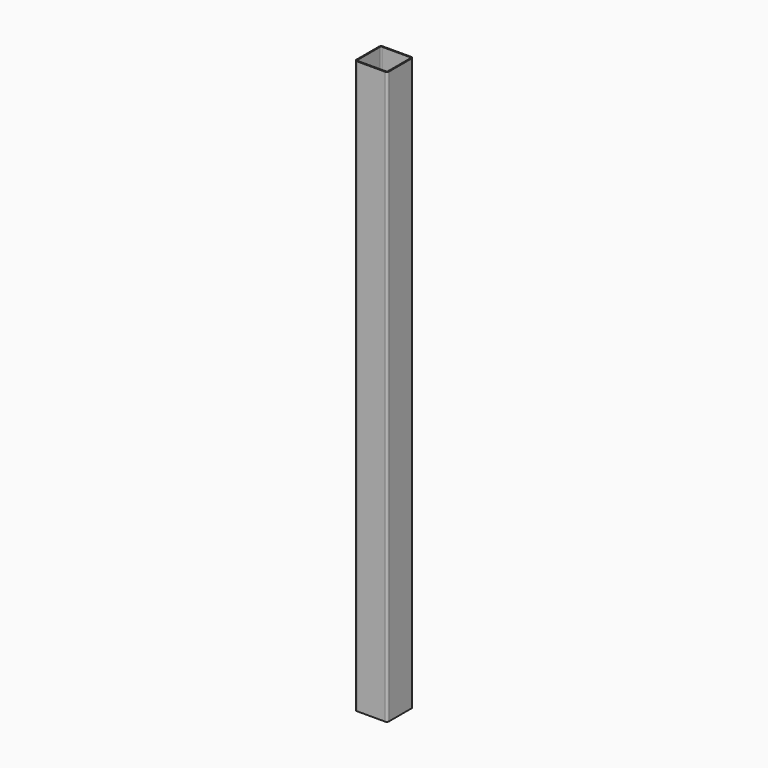
from build123d import *

# Parameters (mm, degrees)
F0_W     = 50.8
F0_H     = 50.8
F0_W_2   = 47.625
F0_H_2   = 47.625
F1_DEPTH = 895.35
F2_R     = 3.175
F3_R     = 1.5875


with BuildPart() as f1:
    # F0 (on Top) → F1 (new body)
    with BuildSketch(Plane.XY):
        with Locations((-12.7, -11.264074)):
            Rectangle(F0_W, F0_H)
        with Locations((-12.7, -11.264074)):
            Rectangle(F0_W_2, F0_H_2, mode=Mode.SUBTRACT)
    extrude(amount=-F1_DEPTH)

    # F2
    f2_edges = [f1.edges().sort_by_distance(p)[0] for p in [
        (-38.1, -36.664074, -447.675),
        (12.7, -36.664074, -447.675),
        (12.7, 14.135926, -447.675),
        (-38.1, 14.135926, -447.675),
    ]]
    fillet(f2_edges, radius=F2_R)

    # F3
    f3_edges = [f1.edges().sort_by_distance(p)[0] for p in [
        (-36.5125, 12.548426, -447.675),
        (11.1125, 12.548426, -447.675),
        (11.1125, -35.076574, -447.675),
        (-36.5125, -35.076574, -447.675),
    ]]
    fillet(f3_edges, radius=F3_R)


solid = f1.part
